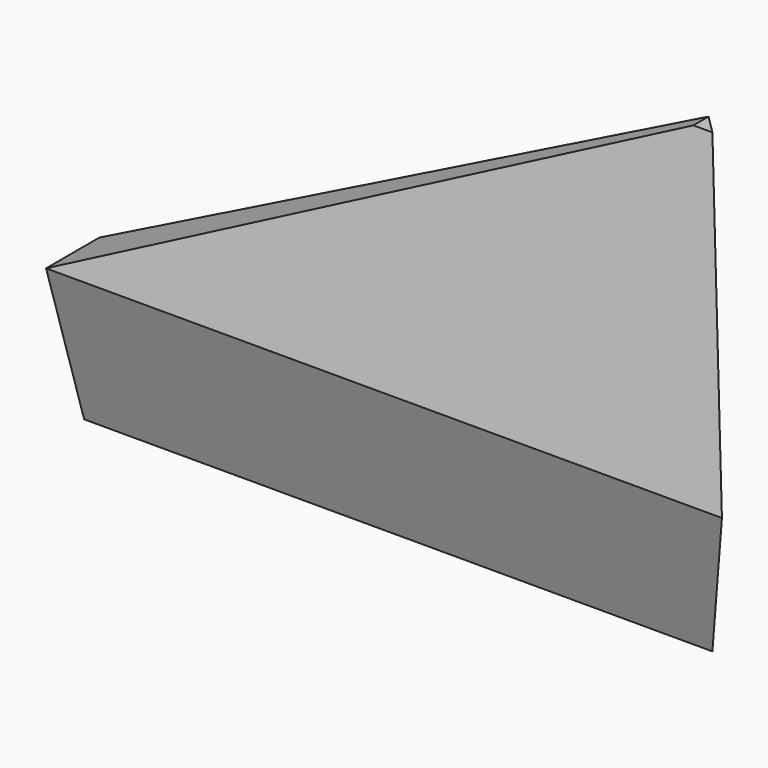
from build123d import *

# Parameters (mm, degrees)
F0_W     = 457.2
F0_H     = 304.8
F1_DEPTH = 44.45
F3_DEPTH = 457.201
F5_DEPTH = 44.451
F7_DEPTH = 304.801


with BuildPart() as f1:
    # F0 (on Front) → F1 (new body)
    with BuildSketch(Plane.XZ):
        with Locations((154.513133, 152.4)):
            Rectangle(F0_W, F0_H)
    extrude(amount=F1_DEPTH)

    # F2 (on face) → F3 (cut, through all)
    with BuildSketch(Plane.YZ.offset(383.113133)):
        Polygon((-44.45, 101.6), (-12.7, 304.8), (-82.839599, 304.8), (-82.839599, 0), (-12.7, 0), align=None)
    extrude(amount=-F3_DEPTH, mode=Mode.SUBTRACT)

    # F4 (on face) → F5 (cut, through all)
    with BuildSketch(Plane(origin=(0, 0, 0), x_dir=(-1, 0, 0), z_dir=(0, 1, 0))):
        Polygon((74.086867, 304.8), (-332.313133, 304.8), (74.086867, 101.6), align=None)
    extrude(amount=-F5_DEPTH, mode=Mode.SUBTRACT)

    # F6 (on face) → F7 (cut, through all)
    with BuildSketch(Plane(origin=(0, 0, 0), x_dir=(1, 0, 0), z_dir=(0, 0, -1))):
        Polygon((332.313133, 0), (383.113133, 0), (383.113133, 50.8), align=None)
    extrude(amount=-F7_DEPTH, mode=Mode.SUBTRACT)


solid = f1.part
